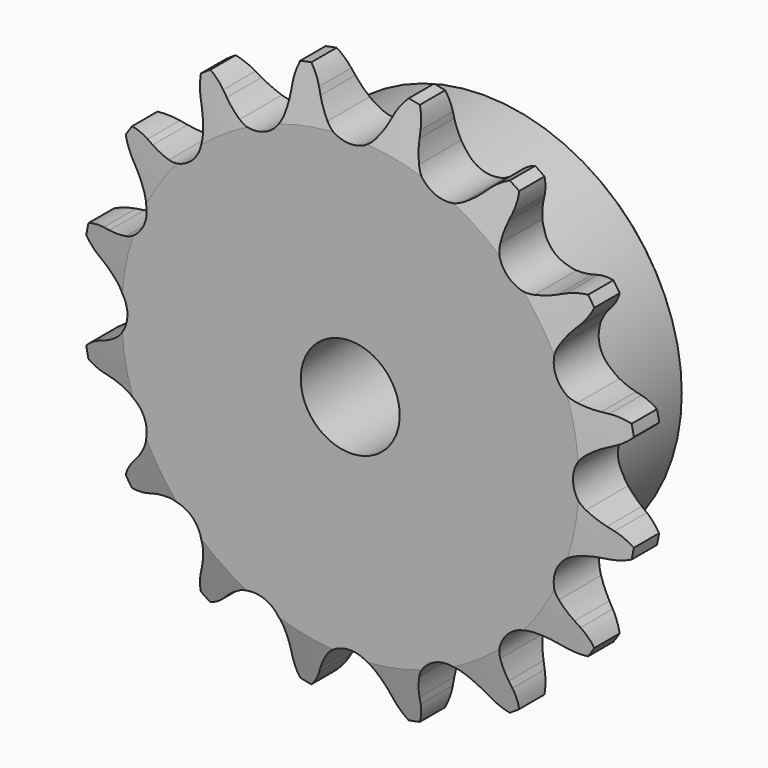
from build123d import *

# Parameters (mm, degrees)
F0_W     = 15.0114
F0_H     = 19.05
F0_W_2   = 7.2136
F0_H_2   = 10.287
F2_R     = 1.5875
F3_SIZE  = 0.79375
F4_SIZE2 = 6.35
F4_SIZE  = 1.5748
F6_DEPTH = 22.226


with BuildPart() as f1:
    # F0 (on Right) → F1 (revolve)
    with BuildSketch(Plane.YZ):
        with Locations((14.7193, 15.875)):
            Rectangle(F0_W, F0_H)
        with Locations((3.6068, 15.875)):
            Rectangle(F0_W_2, F0_H)
        with Locations((3.6068, 30.5435)):
            Rectangle(F0_W_2, F0_H_2)
    revolve(axis=Axis((0, 11.1125, 0), (0, 1, 0)))

    # F2
    f2_edges = [f1.edges().sort_by_distance(p)[0] for p in [
        (0, 7.2136, -25.4),
    ]]
    fillet(f2_edges, radius=F2_R)

    # F3
    f3_edges = [f1.edges().sort_by_distance(p)[0] for p in [
        (0, 22.225, -25.4),
    ]]
    chamfer(f3_edges, length=F3_SIZE)

    # F4
    f4_edges = [f1.edges().sort_by_distance(p)[0] for p in [
        (0, 0, -35.687),
        (0, 7.2136, -35.687),
    ]]
    f4_side = f1.faces().sort_by_distance((0, 3.6068, -35.687))[0]
    chamfer(f4_edges, length=F4_SIZE, length2=F4_SIZE2, reference=f4_side)

    # F5 (on face) → F6 (intersect, through all)
    with BuildSketch(Plane.XZ):
        with BuildLine():
            ThreePointArc((-3.0902142758, 30.0699408338), (-3.8441959519, 31.1417538349), (-4.4568878106, 32.3001493474))
            Line((-4.4568878106, 32.3001493474), (-4.8164154778, 33.0982711732))
            ThreePointArc((-4.8164154778, 33.0982711732), (-5.7824590494, 34.6345413147), (-7.1308367855, 35.8491373836))
            ThreePointArc((-7.1308367855, 35.8491373836), (-7.9117695854, 34.2109951151), (-8.2163723379, 32.4219777052))
            Line((-8.2163723379, 32.4219777052), (-8.2431045912, 31.5470240041))
            ThreePointArc((-8.2431045912, 31.5470240041), (-8.3658592885, 30.2423390761), (-8.6522824488, 28.963576686))
            ThreePointArc((-8.6522824488, 28.963576686), (-10.9400391594, 26.4115909116), (-14.3622538898, 26.5984290744))
            ThreePointArc((-14.3622538898, 26.5984290744), (-15.4690072063, 27.300118873), (-16.4783594451, 28.135869754))
            Line((-16.4783594451, 28.135869754), (-17.115947698, 28.7356528917))
            ThreePointArc((-17.115947698, 28.7356528917), (-18.596360712, 29.7852925621), (-20.3069050971, 30.3914311902))
            ThreePointArc((-20.3069050971, 30.3914311902), (-20.4015030212, 28.5791350327), (-19.9982919468, 26.8097320375))
            Line((-19.9982919468, 26.8097320375), (-19.688159043, 25.9911502307))
            ThreePointArc((-19.688159043, 25.9911502307), (-19.3022882889, 24.7388023405), (-19.0775476037, 23.4477705432))
            ThreePointArc((-19.0775476037, 23.4477705432), (-20.2145565285, 20.2145565285), (-23.4477705432, 19.0775476037))
            ThreePointArc((-23.4477705432, 19.0775476037), (-24.7388023405, 19.3022882889), (-25.9911502307, 19.688159043))
            Line((-25.9911502307, 19.688159043), (-26.8097320375, 19.9982919468))
            ThreePointArc((-26.8097320375, 19.9982919468), (-28.5791350327, 20.4015030212), (-30.3914311902, 20.3069050971))
            ThreePointArc((-30.3914311902, 20.3069050971), (-29.7852925621, 18.596360712), (-28.7356528917, 17.115947698))
            Line((-28.7356528917, 17.115947698), (-28.135869754, 16.4783594451))
            ThreePointArc((-28.135869754, 16.4783594451), (-27.300118873, 15.4690072063), (-26.5984290744, 14.3622538898))
            ThreePointArc((-26.5984290744, 14.3622538898), (-26.4115909116, 10.9400391594), (-28.963576686, 8.6522824488))
            ThreePointArc((-28.963576686, 8.6522824488), (-30.2423390761, 8.3658592885), (-31.5470240041, 8.2431045912))
            Line((-31.5470240041, 8.2431045912), (-32.4219777052, 8.2163723379))
            ThreePointArc((-32.4219777052, 8.2163723379), (-34.2109951151, 7.9117695854), (-35.8491373836, 7.1308367855))
            ThreePointArc((-35.8491373836, 7.1308367855), (-34.6345413147, 5.7824590494), (-33.0982711732, 4.8164154778))
            Line((-33.0982711732, 4.8164154778), (-32.3001493474, 4.4568878106))
            ThreePointArc((-32.3001493474, 4.4568878106), (-31.1417538349, 3.8441959519), (-30.0699408338, 3.0902142758))
            ThreePointArc((-30.0699408338, 3.0902142758), (-28.5877, 0), (-30.0699408338, -3.0902142758))
            ThreePointArc((-30.0699408338, -3.0902142758), (-31.1417538349, -3.8441959519), (-32.3001493474, -4.4568878106))
            Line((-32.3001493474, -4.4568878106), (-33.0982711732, -4.8164154778))
            ThreePointArc((-33.0982711732, -4.8164154778), (-34.6345413147, -5.7824590494), (-35.8491373836, -7.1308367855))
            ThreePointArc((-35.8491373836, -7.1308367855), (-34.2109951151, -7.9117695854), (-32.4219777052, -8.2163723379))
            Line((-32.4219777052, -8.2163723379), (-31.5470240041, -8.2431045912))
            ThreePointArc((-31.5470240041, -8.2431045912), (-30.2423390761, -8.3658592885), (-28.963576686, -8.6522824488))
            ThreePointArc((-28.963576686, -8.6522824488), (-26.4115909116, -10.9400391594), (-26.5984290744, -14.3622538898))
            ThreePointArc((-26.5984290744, -14.3622538898), (-27.300118873, -15.4690072063), (-28.135869754, -16.4783594451))
            Line((-28.135869754, -16.4783594451), (-28.7356528917, -17.115947698))
            ThreePointArc((-28.7356528917, -17.115947698), (-29.7852925621, -18.596360712), (-30.3914311902, -20.3069050971))
            ThreePointArc((-30.3914311902, -20.3069050971), (-28.5791350327, -20.4015030212), (-26.8097320375, -19.9982919468))
            Line((-26.8097320375, -19.9982919468), (-25.9911502307, -19.688159043))
            ThreePointArc((-25.9911502307, -19.688159043), (-24.7388023405, -19.3022882889), (-23.4477705432, -19.0775476037))
            ThreePointArc((-23.4477705432, -19.0775476037), (-20.2145565285, -20.2145565285), (-19.0775476037, -23.4477705432))
            ThreePointArc((-19.0775476037, -23.4477705432), (-19.3022882889, -24.7388023405), (-19.688159043, -25.9911502307))
            Line((-19.688159043, -25.9911502307), (-19.9982919468, -26.8097320375))
            ThreePointArc((-19.9982919468, -26.8097320375), (-20.4015030212, -28.5791350327), (-20.3069050971, -30.3914311902))
            ThreePointArc((-20.3069050971, -30.3914311902), (-18.596360712, -29.7852925621), (-17.115947698, -28.7356528917))
            Line((-17.115947698, -28.7356528917), (-16.4783594451, -28.135869754))
            ThreePointArc((-16.4783594451, -28.135869754), (-15.4690072063, -27.300118873), (-14.3622538898, -26.5984290744))
            ThreePointArc((-14.3622538898, -26.5984290744), (-10.9400391594, -26.4115909116), (-8.6522824488, -28.963576686))
            ThreePointArc((-8.6522824488, -28.963576686), (-8.3658592885, -30.2423390761), (-8.2431045912, -31.5470240041))
            Line((-8.2431045912, -31.5470240041), (-8.2163723379, -32.4219777052))
            ThreePointArc((-8.2163723379, -32.4219777052), (-7.9117695854, -34.2109951151), (-7.1308367855, -35.8491373836))
            ThreePointArc((-7.1308367855, -35.8491373836), (-5.7824590494, -34.6345413147), (-4.8164154778, -33.0982711732))
            Line((-4.8164154778, -33.0982711732), (-4.4568878106, -32.3001493474))
            ThreePointArc((-4.4568878106, -32.3001493474), (-3.8441959519, -31.1417538349), (-3.0902142758, -30.0699408338))
            ThreePointArc((-3.0902142758, -30.0699408338), (0, -28.5877), (3.0902142758, -30.0699408338))
            ThreePointArc((3.0902142758, -30.0699408338), (3.8441959519, -31.1417538349), (4.4568878106, -32.3001493474))
            Line((4.4568878106, -32.3001493474), (4.8164154778, -33.0982711732))
            ThreePointArc((4.8164154778, -33.0982711732), (5.7824590494, -34.6345413147), (7.1308367855, -35.8491373836))
            ThreePointArc((7.1308367855, -35.8491373836), (7.9117695854, -34.2109951151), (8.2163723379, -32.4219777052))
            Line((8.2163723379, -32.4219777052), (8.2431045912, -31.5470240041))
            ThreePointArc((8.2431045912, -31.5470240041), (8.3658592885, -30.2423390761), (8.6522824488, -28.963576686))
            ThreePointArc((8.6522824488, -28.963576686), (10.9400391594, -26.4115909116), (14.3622538898, -26.5984290744))
            ThreePointArc((14.3622538898, -26.5984290744), (15.4690072063, -27.300118873), (16.4783594451, -28.135869754))
            Line((16.4783594451, -28.135869754), (17.115947698, -28.7356528917))
            ThreePointArc((17.115947698, -28.7356528917), (18.596360712, -29.7852925621), (20.3069050971, -30.3914311902))
            ThreePointArc((20.3069050971, -30.3914311902), (20.4015030212, -28.5791350327), (19.9982919468, -26.8097320375))
            Line((19.9982919468, -26.8097320375), (19.688159043, -25.9911502307))
            ThreePointArc((19.688159043, -25.9911502307), (19.3022882889, -24.7388023405), (19.0775476037, -23.4477705432))
            ThreePointArc((19.0775476037, -23.4477705432), (20.2145565285, -20.2145565285), (23.4477705432, -19.0775476037))
            ThreePointArc((23.4477705432, -19.0775476037), (24.7388023405, -19.3022882889), (25.9911502307, -19.688159043))
            Line((25.9911502307, -19.688159043), (26.8097320375, -19.9982919468))
            ThreePointArc((26.8097320375, -19.9982919468), (28.5791350327, -20.4015030212), (30.3914311902, -20.3069050971))
            ThreePointArc((30.3914311902, -20.3069050971), (29.7852925621, -18.596360712), (28.7356528917, -17.115947698))
            Line((28.7356528917, -17.115947698), (28.135869754, -16.4783594451))
            ThreePointArc((28.135869754, -16.4783594451), (27.300118873, -15.4690072063), (26.5984290744, -14.3622538898))
            ThreePointArc((26.5984290744, -14.3622538898), (26.4115909116, -10.9400391594), (28.963576686, -8.6522824488))
            ThreePointArc((28.963576686, -8.6522824488), (30.2423390761, -8.3658592885), (31.5470240041, -8.2431045912))
            Line((31.5470240041, -8.2431045912), (32.4219777052, -8.2163723379))
            ThreePointArc((32.4219777052, -8.2163723379), (34.2109951151, -7.9117695854), (35.8491373836, -7.1308367855))
            ThreePointArc((35.8491373836, -7.1308367855), (34.6345413147, -5.7824590494), (33.0982711732, -4.8164154778))
            Line((33.0982711732, -4.8164154778), (32.3001493474, -4.4568878106))
            ThreePointArc((32.3001493474, -4.4568878106), (31.1417538349, -3.8441959519), (30.0699408338, -3.0902142758))
            ThreePointArc((30.0699408338, -3.0902142758), (28.5877, 0), (30.0699408338, 3.0902142758))
            ThreePointArc((30.0699408338, 3.0902142758), (31.1417538349, 3.8441959519), (32.3001493474, 4.4568878106))
            Line((32.3001493474, 4.4568878106), (33.0982711732, 4.8164154778))
            ThreePointArc((33.0982711732, 4.8164154778), (34.6345413147, 5.7824590494), (35.8491373836, 7.1308367855))
            ThreePointArc((35.8491373836, 7.1308367855), (34.2109951151, 7.9117695854), (32.4219777052, 8.2163723379))
            Line((32.4219777052, 8.2163723379), (31.5470240041, 8.2431045912))
            ThreePointArc((31.5470240041, 8.2431045912), (30.2423390761, 8.3658592885), (28.963576686, 8.6522824488))
            ThreePointArc((28.963576686, 8.6522824488), (26.4115909116, 10.9400391594), (26.5984290744, 14.3622538898))
            ThreePointArc((26.5984290744, 14.3622538898), (27.300118873, 15.4690072063), (28.135869754, 16.4783594451))
            Line((28.135869754, 16.4783594451), (28.7356528917, 17.115947698))
            ThreePointArc((28.7356528917, 17.115947698), (29.7852925621, 18.596360712), (30.3914311902, 20.3069050971))
            ThreePointArc((30.3914311902, 20.3069050971), (28.5791350327, 20.4015030212), (26.8097320375, 19.9982919468))
            Line((26.8097320375, 19.9982919468), (25.9911502307, 19.688159043))
            ThreePointArc((25.9911502307, 19.688159043), (24.7388023405, 19.3022882889), (23.4477705432, 19.0775476037))
            ThreePointArc((23.4477705432, 19.0775476037), (20.2145565285, 20.2145565285), (19.0775476037, 23.4477705432))
            ThreePointArc((19.0775476037, 23.4477705432), (19.3022882889, 24.7388023405), (19.688159043, 25.9911502307))
            Line((19.688159043, 25.9911502307), (19.9982919468, 26.8097320375))
            ThreePointArc((19.9982919468, 26.8097320375), (20.4015030212, 28.5791350327), (20.3069050971, 30.3914311902))
            ThreePointArc((20.3069050971, 30.3914311902), (18.596360712, 29.7852925621), (17.115947698, 28.7356528917))
            Line((17.115947698, 28.7356528917), (16.4783594451, 28.135869754))
            ThreePointArc((16.4783594451, 28.135869754), (15.4690072063, 27.300118873), (14.3622538898, 26.5984290744))
            ThreePointArc((14.3622538898, 26.5984290744), (10.9400391594, 26.4115909116), (8.6522824488, 28.963576686))
            ThreePointArc((8.6522824488, 28.963576686), (8.3658592885, 30.2423390761), (8.2431045912, 31.5470240041))
            Line((8.2431045912, 31.5470240041), (8.2163723379, 32.4219777052))
            ThreePointArc((8.2163723379, 32.4219777052), (7.9117695854, 34.2109951151), (7.1308367855, 35.8491373836))
            ThreePointArc((7.1308367855, 35.8491373836), (5.7824590494, 34.6345413147), (4.8164154778, 33.0982711732))
            Line((4.8164154778, 33.0982711732), (4.4568878106, 32.3001493474))
            ThreePointArc((4.4568878106, 32.3001493474), (3.8441959519, 31.1417538349), (3.0902142758, 30.0699408338))
            ThreePointArc((3.0902142758, 30.0699408338), (0, 28.5877), (-3.0902142758, 30.0699408338))
        make_face()
    extrude(amount=-F6_DEPTH, mode=Mode.INTERSECT)


solid = f1.part
